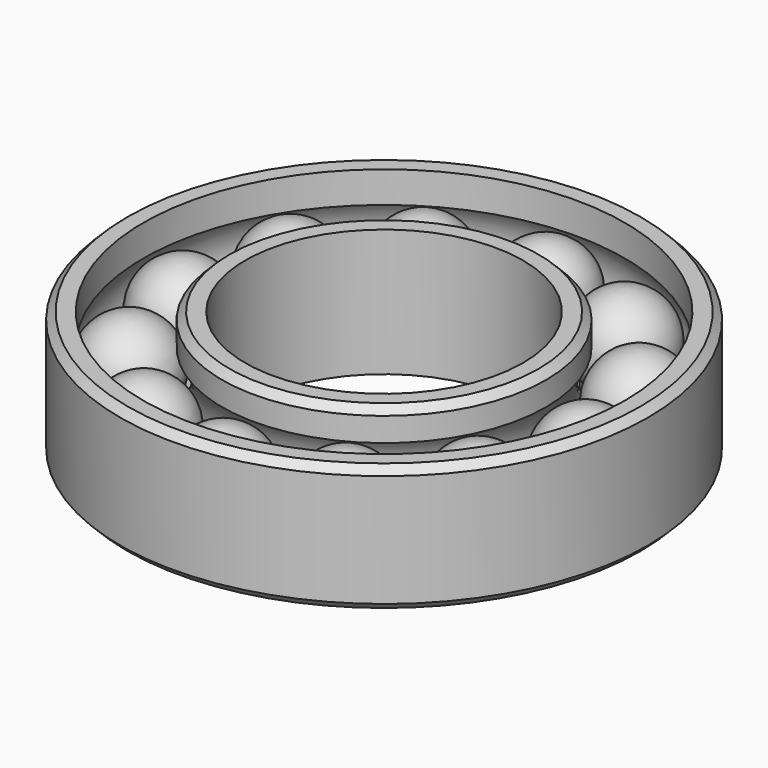
from build123d import *

# Parameters (mm, degrees)
F6_COUNT = 12
F7_SIZE  = 2.032
F8_R     = 64.824042
F8_R_2   = 45.737865
F9_DEPTH = 2.54


with BuildPart() as f2:
    # F0 (on Front) → F2 (revolve)
    with BuildSketch(Plane.XZ):
        with BuildLine():
            Line((44.45, 17.4625), (38.1, 17.4625))
            Line((38.1, 17.4625), (38.1, -17.4625))
            Line((38.1, -17.4625), (44.45, -17.4625))
            Line((44.45, -17.4625), (44.45, -8.867292))
            ThreePointArc((44.45, -8.867292), (41.275, 0), (44.45, 8.867292))
            Line((44.45, 8.867292), (44.45, 17.4625))
        make_face()
        with BuildLine():
            Line((72.39, -17.4625), (72.39, 17.4625))
            Line((72.39, 17.4625), (66.04, 17.4625))
            Line((66.04, 17.4625), (66.04, 8.867292))
            ThreePointArc((66.04, 8.867292), (69.215, 0), (66.04, -8.867292))
            Line((66.04, -8.867292), (66.04, -17.4625))
            Line((66.04, -17.4625), (72.39, -17.4625))
        make_face()
    revolve(axis=Axis((0, 0, 5.890179), (0, 0, -1)))

    # F7
    f7_edges = [f2.edges().sort_by_distance(p)[0] for p in [
        (-72.39, 0, 17.4625),
        (-72.39, 0, -17.4625),
        (-44.45, 0, -17.4625),
        (-44.45, 0, 17.4625),
    ]]
    chamfer(f7_edges, length=F7_SIZE)


with BuildPart() as f5:
    # F3 (on Front) → F5 (revolve)
    with BuildSketch(Plane.XZ):
        with BuildLine():
            ThreePointArc((57.531, -12.492566), (67.893035, 1.147696), (55.245, 12.7))
            Line((55.245, 12.7), (55.245, -12.446))
            Line((55.245, -12.446), (55.245, -12.7))
            ThreePointArc((55.245, -12.7), (56.392696, -12.648035), (57.531, -12.492566))
        make_face()
        with BuildLine():
            Line((57.531, -17.4625), (57.531, -12.621653))
            ThreePointArc((57.531, -12.621653), (56.392602, -12.77556), (55.245, -12.827))
            Line((55.245, -12.827), (55.245, -17.4625))
            Line((55.245, -17.4625), (57.531, -17.4625))
        make_face()
        with BuildLine():
            ThreePointArc((59.817, -11.984521), (59.187338, -12.206142), (58.547, -12.394706))
            Line((58.547, -12.394706), (58.547, -17.4625))
            Line((58.547, -17.4625), (59.817, -17.4625))
            Line((59.817, -17.4625), (59.817, -11.984521))
        make_face()
        with BuildLine():
            ThreePointArc((62.103, -10.839731), (61.478007, -11.210779), (60.833, -11.54583))
            Line((60.833, -11.54583), (60.833, -17.4625))
            Line((60.833, -17.4625), (62.103, -17.4625))
            Line((62.103, -17.4625), (62.103, -10.839731))
        make_face()
        with BuildLine():
            ThreePointArc((64.897, -8.448126), (64.048058, -9.329421), (63.119, -10.125811))
            Line((63.119, -10.125811), (63.119, -17.4625))
            Line((63.119, -17.4625), (64.897, -17.4625))
            Line((64.897, -17.4625), (64.897, -8.448126))
        make_face()
    revolve(axis=Axis((55.245, 0, -0.33118), (0, 0, -1)))


with BuildPart() as f6_1:
    # F6: instance of F5
    add(f5.part.rotate(Axis((0, 0, 5.890179), (0, 0, -1)), 1 * 360 / F6_COUNT))


with BuildPart() as f6_2:
    # F6: instance of F5
    add(f5.part.rotate(Axis((0, 0, 5.890179), (0, 0, -1)), 2 * 360 / F6_COUNT))


with BuildPart() as f6_3:
    # F6: instance of F5
    add(f5.part.rotate(Axis((0, 0, 5.890179), (0, 0, -1)), 3 * 360 / F6_COUNT))


with BuildPart() as f6_4:
    # F6: instance of F5
    add(f5.part.rotate(Axis((0, 0, 5.890179), (0, 0, -1)), 4 * 360 / F6_COUNT))


with BuildPart() as f6_5:
    # F6: instance of F5
    add(f5.part.rotate(Axis((0, 0, 5.890179), (0, 0, -1)), 5 * 360 / F6_COUNT))


with BuildPart() as f6_6:
    # F6: instance of F5
    add(f5.part.rotate(Axis((0, 0, 5.890179), (0, 0, -1)), 6 * 360 / F6_COUNT))


with BuildPart() as f6_7:
    # F6: instance of F5
    add(f5.part.rotate(Axis((0, 0, 5.890179), (0, 0, -1)), 7 * 360 / F6_COUNT))


with BuildPart() as f6_8:
    # F6: instance of F5
    add(f5.part.rotate(Axis((0, 0, 5.890179), (0, 0, -1)), 8 * 360 / F6_COUNT))


with BuildPart() as f6_9:
    # F6: instance of F5
    add(f5.part.rotate(Axis((0, 0, 5.890179), (0, 0, -1)), 9 * 360 / F6_COUNT))


with BuildPart() as f6_10:
    # F6: instance of F5
    add(f5.part.rotate(Axis((0, 0, 5.890179), (0, 0, -1)), 10 * 360 / F6_COUNT))


with BuildPart() as f6_11:
    # F6: instance of F5
    add(f5.part.rotate(Axis((0, 0, 5.890179), (0, 0, -1)), 11 * 360 / F6_COUNT))


with BuildPart() as f9:
    # F8 (on face) → F9 (new body)
    with BuildSketch(Plane(origin=(0, 0, -17.4625), x_dir=(1, 0, 0), z_dir=(0, 0, -1))):
        Circle(F8_R)
        Circle(F8_R_2, mode=Mode.SUBTRACT)
    extrude(amount=-F9_DEPTH)


solid = Compound([f2.part, f5.part, f6_1.part, f6_2.part, f6_3.part, f6_4.part, f6_5.part, f6_6.part, f6_7.part, f6_8.part, f6_9.part, f6_10.part, f6_11.part, f9.part])
